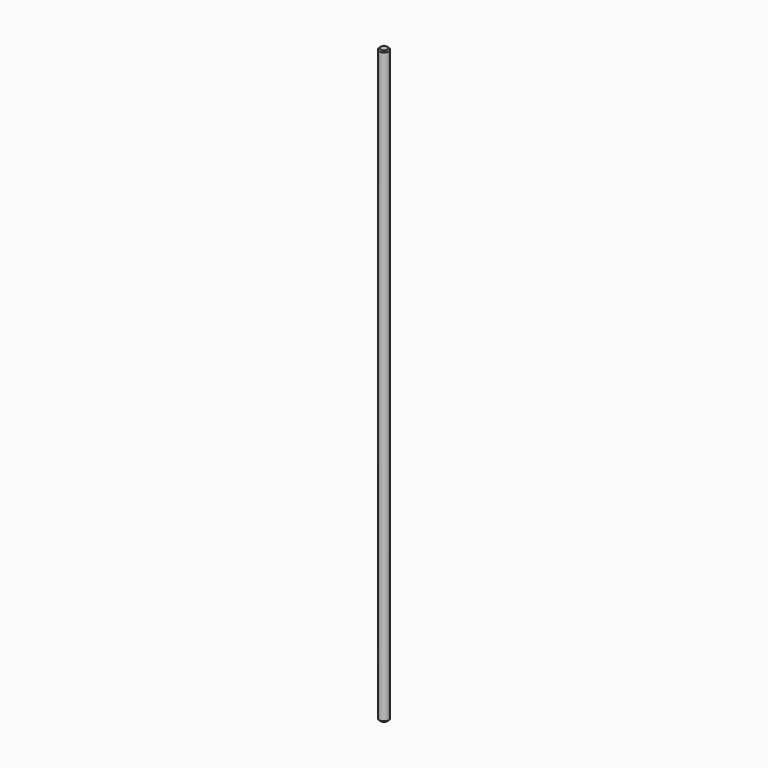
from build123d import *

# Parameters (mm, degrees)
F0_R     = 5
F1_DEPTH = 304.8
F2_SIZE  = 1.27


with BuildPart() as f1:
    # F0 (on Top) → F1 (new body, symmetric)
    with BuildSketch(Plane.XY):
        Circle(F0_R)
    extrude(amount=F1_DEPTH, both=True)

    # F2
    f2_edges = [f1.edges().sort_by_distance(p)[0] for p in [
        (-5, 0, -304.8),
        (-5, 0, 304.8),
    ]]
    chamfer(f2_edges, length=F2_SIZE)


solid = f1.part
